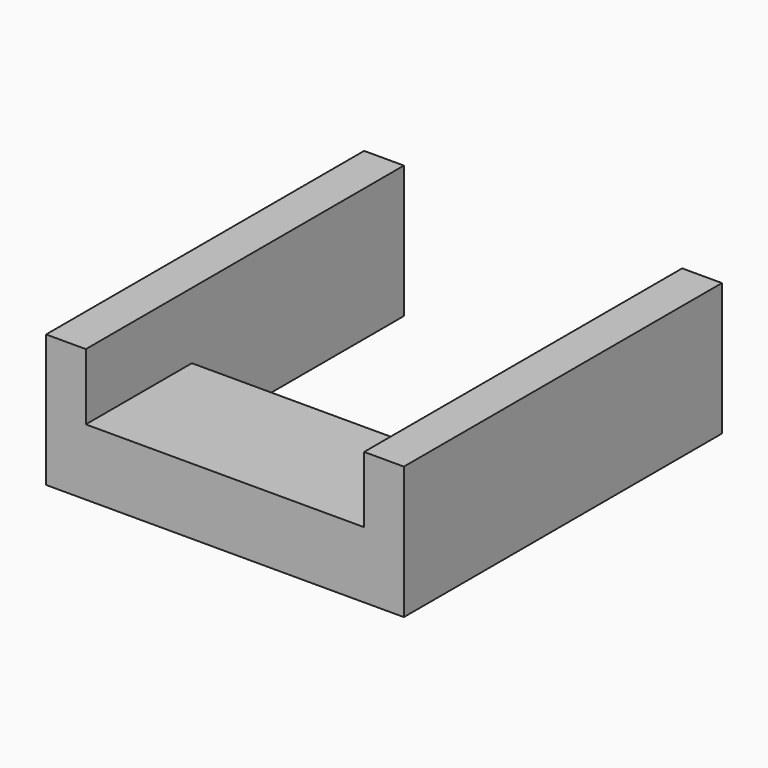
from build123d import *

# Parameters (mm, degrees)
F0_W     = 7.62
F0_H     = 12.7
F0_W_2   = 53.34
F1_DEPTH = 25.4
F2_DEPTH = 50.8


with BuildPart() as f1:
    # F0 (on Front) → F1 (new body)
    with BuildSketch(Plane.XZ):
        with Locations((-36.981269, 52.491785)):
            Rectangle(F0_W, F0_H)
        with Locations((-36.981269, 39.791785)):
            Rectangle(F0_W, F0_H)
        with Locations((-6.501269, 39.791785)):
            Rectangle(F0_W_2, F0_H)
        with Locations((23.978731, 39.791785)):
            Rectangle(F0_W, F0_H)
        with Locations((23.978731, 52.491785)):
            Rectangle(F0_W, F0_H)
    extrude(amount=F1_DEPTH)

    # F0 (on Front) → F2 (join)
    with BuildSketch(Plane.XZ):
        with Locations((-36.981269, 52.491785)):
            Rectangle(F0_W, F0_H)
        with Locations((-36.981269, 39.791785)):
            Rectangle(F0_W, F0_H)
        with Locations((23.978731, 39.791785)):
            Rectangle(F0_W, F0_H)
        with Locations((23.978731, 52.491785)):
            Rectangle(F0_W, F0_H)
    extrude(amount=-F2_DEPTH)


solid = f1.part
